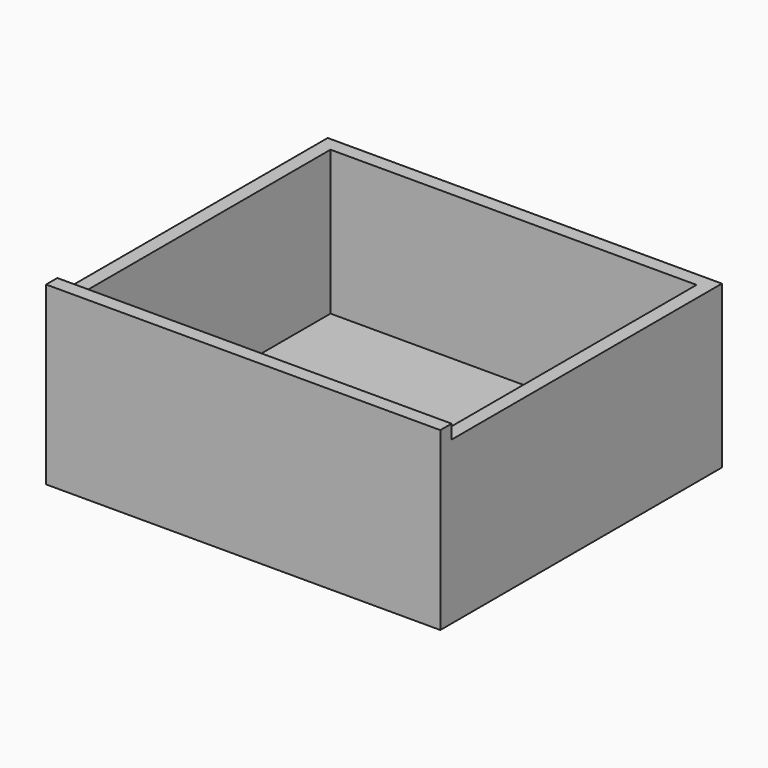
from build123d import *

# Parameters (mm, degrees)
F0_W     = 20
F0_H     = 460
F0_H_2   = 20
F0_W_2   = 520
F1_DEPTH = 230
F2_DEPTH = 250
F3_DEPTH = 25


with BuildPart() as f1:
    # F0 (on Top) → F1 (new body)
    with BuildSketch(Plane.XY):
        with Locations((-270, 0)):
            Rectangle(F0_W, F0_H)
        with Locations((-270, 240)):
            Rectangle(F0_W, F0_H_2)
        with Locations((0, 240)):
            Rectangle(F0_W_2, F0_H_2)
        with Locations((270, 0)):
            Rectangle(F0_W, F0_H)
        with Locations((270, 240)):
            Rectangle(F0_W, F0_H_2)
    extrude(amount=F1_DEPTH)

    # F0 (on Top) → F2 (join)
    with BuildSketch(Plane.XY):
        with Locations((-270, -240)):
            Rectangle(F0_W, F0_H_2)
        with Locations((0, -240)):
            Rectangle(F0_W_2, F0_H_2)
        with Locations((270, -240)):
            Rectangle(F0_W, F0_H_2)
    extrude(amount=F2_DEPTH)

    # F0 (on Top) → F3 (join)
    with BuildSketch(Plane.XY):
        with Locations((270, -240)):
            Rectangle(F0_W, F0_H_2)
        with Locations((0, -240)):
            Rectangle(F0_W_2, F0_H_2)
        with Locations((270, 0)):
            Rectangle(F0_W, F0_H)
        with Locations((-270, -240)):
            Rectangle(F0_W, F0_H_2)
        with Locations((270, 240)):
            Rectangle(F0_W, F0_H_2)
        with Locations((-270, 0)):
            Rectangle(F0_W, F0_H)
        with Locations((0, 240)):
            Rectangle(F0_W_2, F0_H_2)
        with Locations((-270, 240)):
            Rectangle(F0_W, F0_H_2)
        Rectangle(F0_W_2, F0_H)
    extrude(amount=F3_DEPTH)


solid = f1.part
